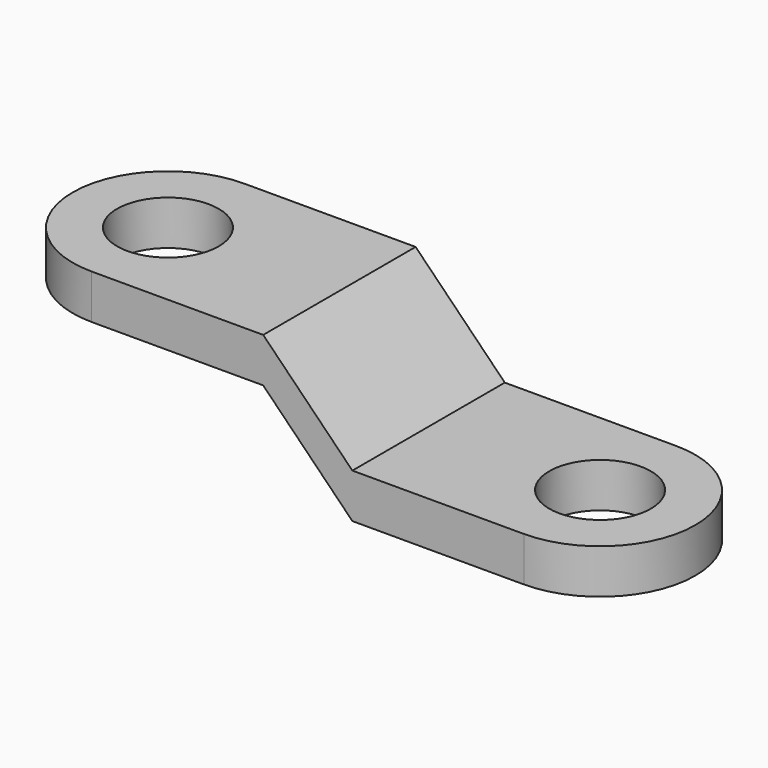
from build123d import *

# Parameters (mm, degrees)
PAD_DEPTH       = 30
PAD001_DEPTH    = 7
PAD002_DEPTH    = 7
SKETCH004_R     = 8
POCKET_DEPTH    = 21.244539
SKETCH006_R     = 8
POCKET001_DEPTH = 21.244539


with BuildPart() as part:
    # Sketch → Pad (new body)
    with BuildSketch(Plane.XZ):
        Polygon((0, 14.243539), (27, 14.243539), (41.04, 0), (68.04, 0), (68.04, -7), (41.04, -7), (27, 7.243539), (0, 7.243539), align=None)
    extrude(amount=PAD_DEPTH)

    # Sketch002 (on DatumPlane) → Pad001 (join)
    with BuildSketch(Plane(origin=(0, -15, 14.243539), x_dir=(1, 0, 0), z_dir=(0, 0, 1))):
        with BuildLine():
            ThreePointArc((0, 15), (-15, 0), (0, -15))
            Line((0, 15), (0, -15))
        make_face()
    extrude(amount=-PAD001_DEPTH)

    # Sketch003 (on DatumPlane) → Pad002 (join)
    with BuildSketch(Plane(origin=(68.04, -15, -7), x_dir=(1, 0, 0), z_dir=(0, 0, 1))):
        with BuildLine():
            ThreePointArc((0, -15), (14.999969, 0), (0, 15))
            Line((0, 15), (0, -15))
        make_face()
    extrude(amount=PAD002_DEPTH)

    # Sketch004 → Pocket (cut, through all)
    with BuildSketch(Plane(origin=(68.039969, -15, -7), x_dir=(0, -1, 0), z_dir=(0, 0, -1))):
        Circle(SKETCH004_R)
    extrude(amount=-POCKET_DEPTH, mode=Mode.SUBTRACT)

    # Sketch006 (on DatumPlane) → Pocket001 (cut, through all)
    with BuildSketch(Plane(origin=(0, -15, 14.243539), x_dir=(1, 0, 0), z_dir=(0, 0, 1))):
        Circle(SKETCH006_R)
    extrude(amount=-POCKET001_DEPTH, mode=Mode.SUBTRACT)


solid = part.part
